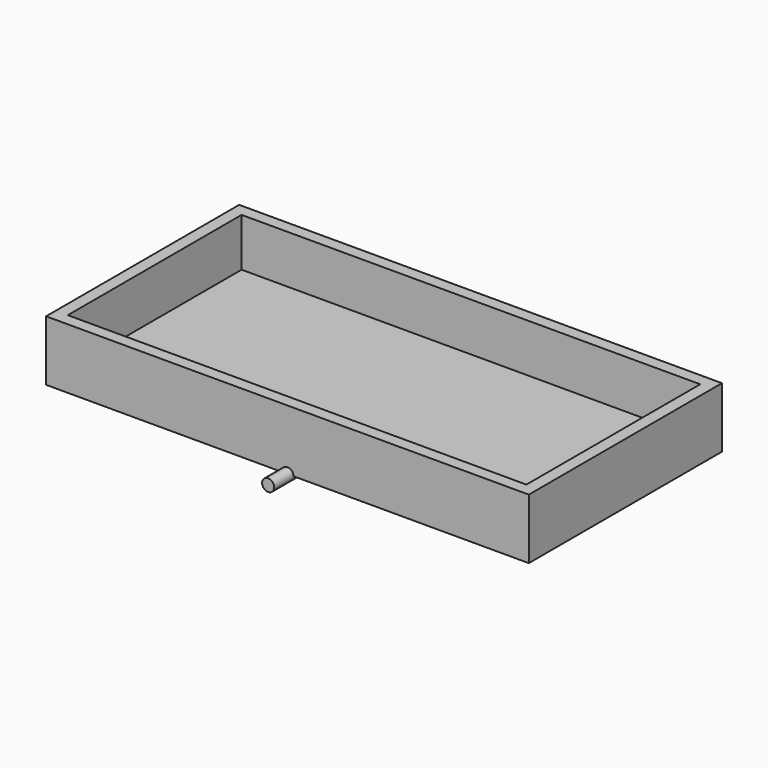
from build123d import *

# Parameters (mm, degrees)
F0_W          = 2000
F0_H          = 1000
F1_DEPTH      = 250
F2_T          = -50
F3_R          = 25
F4_DEPTH      = 500.001
F4_DEPTH_BACK = 500.001
F5_DEPTH      = 600
F5_DEPTH_BACK = 600


with BuildPart() as f1:
    # F0 (on Top) → F1 (new body)
    with BuildSketch(Plane.XY):
        Rectangle(F0_W, F0_H)
    extrude(amount=F1_DEPTH)

    # F2
    f2_openings = [f1.faces().sort_by_distance(p)[0] for p in [
        (0, 0, 250),
    ]]
    offset(amount=F2_T, openings=f2_openings)

    # F3 (on Front) → F4 (cut, two sides)
    with BuildSketch(Plane.XZ) as f4_sk:
        Circle(F3_R)
    extrude(amount=-F4_DEPTH, mode=Mode.SUBTRACT)
    extrude(f4_sk.sketch, amount=F4_DEPTH_BACK, mode=Mode.SUBTRACT)


with BuildPart() as f5:
    # F3 (on Front) → F5 (new body, two sides)
    with BuildSketch(Plane.XZ) as f5_sk:
        Circle(F3_R)
    extrude(amount=F5_DEPTH)
    extrude(f5_sk.sketch, amount=-F5_DEPTH_BACK)


solid = Compound([f1.part, f5.part])
